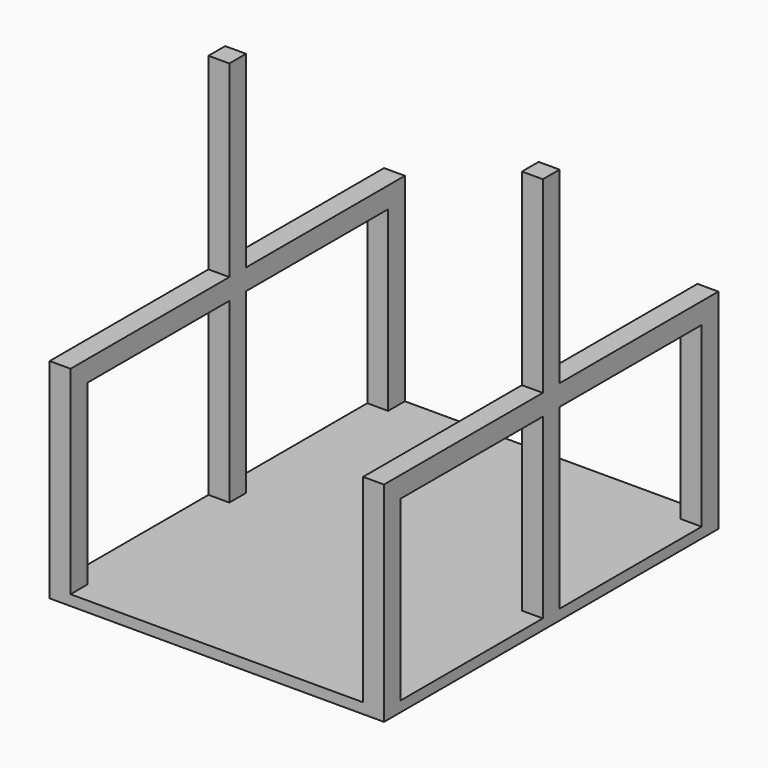
from build123d import *

# Parameters (mm, degrees)
F0_W      = 50
F0_H      = 50
F1_DEPTH  = 50
F0_H_2    = 425
F2_DEPTH  = 25
F3_DEPTH  = 350
F5_DEPTH  = 50
F6_DEPTH  = 500
F8_DEPTH  = 50
F10_DEPTH = 50


with BuildPart() as f1:
    # F0 (on Top) → F1 (new body)
    with BuildSketch(Plane.XY):
        with Locations((-375, 475)):
            Rectangle(F0_W, F0_H)
    extrude(amount=F1_DEPTH)


with BuildPart() as f1b:
    # F0 (on Top) → F1, piece 2 (new body)
    with BuildSketch(Plane.XY):
        with Locations((-375, 0)):
            Rectangle(F0_W, F0_H)
    extrude(amount=F1_DEPTH)


with BuildPart() as f1c:
    # F0 (on Top) → F1, piece 3 (new body)
    with BuildSketch(Plane.XY):
        with Locations((375, 475)):
            Rectangle(F0_W, F0_H)
    extrude(amount=F1_DEPTH)


with BuildPart() as f1d:
    # F0 (on Top) → F1, piece 4 (new body)
    with BuildSketch(Plane.XY):
        with Locations((375, 0)):
            Rectangle(F0_W, F0_H)
    extrude(amount=F1_DEPTH)


with BuildPart() as f1e:
    # F0 (on Top) → F1, piece 5 (new body)
    with BuildSketch(Plane.XY):
        with Locations((-375, -475)):
            Rectangle(F0_W, F0_H)
    extrude(amount=F1_DEPTH)


with BuildPart() as f1f:
    # F0 (on Top) → F1, piece 6 (new body)
    with BuildSketch(Plane.XY):
        with Locations((375, -475)):
            Rectangle(F0_W, F0_H)
    extrude(amount=F1_DEPTH)


with BuildPart() as f2:
    # F0 (on Top) → F2 (new body)
    with BuildSketch(Plane.XY):
        with Locations((375, -475)):
            Rectangle(F0_W, F0_H)
        Polygon((-350, -500), (350, -500), (350, -450), (350, -25), (350, 25), (350, 450), (350, 500), (-350, 500), (-350, 450), (-350, 25), (-350, -25), (-350, -450), align=None)
        with Locations((375, -237.5)):
            Rectangle(F0_W, F0_H_2)
        with Locations((-375, -475)):
            Rectangle(F0_W, F0_H)
        with Locations((375, 0)):
            Rectangle(F0_W, F0_H)
        with Locations((-375, -237.5)):
            Rectangle(F0_W, F0_H_2)
        with Locations((375, 237.5)):
            Rectangle(F0_W, F0_H_2)
        with Locations((-375, 0)):
            Rectangle(F0_W, F0_H)
        with Locations((375, 475)):
            Rectangle(F0_W, F0_H)
        with Locations((-375, 237.5)):
            Rectangle(F0_W, F0_H_2)
        with Locations((-375, 475)):
            Rectangle(F0_W, F0_H)
    extrude(amount=F2_DEPTH)


with BuildPart() as f3:
    # F3 (new): a face of the model
    f3_faces = [f1e.part.faces().sort_by_distance(p)[0] for p in [
        (-375, -475, 50),
    ]]
    extrude(f3_faces, amount=F3_DEPTH)


with BuildPart() as f3b:
    # F3#2 (new): a face of the model
    f3_2_faces = [f1b.part.faces().sort_by_distance(p)[0] for p in [
        (-375, 0, 50),
    ]]
    extrude(f3_2_faces, amount=F3_DEPTH)


with BuildPart() as f3c:
    # F3#3 (new): a face of the model
    f3_3_faces = [f1.part.faces().sort_by_distance(p)[0] for p in [
        (-375, 475, 50),
    ]]
    extrude(f3_3_faces, amount=F3_DEPTH)


with BuildPart() as f3d:
    # F3#4 (new): a face of the model
    f3_4_faces = [f1c.part.faces().sort_by_distance(p)[0] for p in [
        (375, 475, 50),
    ]]
    extrude(f3_4_faces, amount=F3_DEPTH)


with BuildPart() as f3e:
    # F3#5 (new): a face of the model
    f3_5_faces = [f1d.part.faces().sort_by_distance(p)[0] for p in [
        (375, 0, 50),
    ]]
    extrude(f3_5_faces, amount=F3_DEPTH)


with BuildPart() as f3f:
    # F3#6 (new): a face of the model
    f3_6_faces = [f1f.part.faces().sort_by_distance(p)[0] for p in [
        (375, -475, 50),
    ]]
    extrude(f3_6_faces, amount=F3_DEPTH)


with BuildPart() as f3_1:
    add(f3.part)

    # F4: union F3b, F3c, F3d, F3e, F3f, F2, F1d, F1e, F1b, F1, F1c, F1f
    add(f3b.part)
    add(f3c.part)
    add(f3d.part)
    add(f3e.part)
    add(f3f.part)
    add(f2.part)
    add(f1d.part)
    add(f1e.part)
    add(f1b.part)
    add(f1.part)
    add(f1c.part)
    add(f1f.part)

    # F5 (add): faces of the model
    f5_faces = [f3_1.faces().sort_by_distance(p)[0] for p in [
        (375, 475, 400),
        (375, 0, 400),
        (375, -475, 400),
        (-375, -475, 400),
        (-375, 0, 400),
        (-375, 475, 400),
    ]]
    extrude(f5_faces, amount=F5_DEPTH)

    # F6 (add): faces of the model
    f6_faces = [f3_1.faces().sort_by_distance(p)[0] for p in [
        (-375, 0, 450),
        (375, 0, 450),
    ]]
    extrude(f6_faces, amount=F6_DEPTH)

    # F7 (on face) → F8 (join)
    with BuildSketch(Plane.YZ.offset(400)):
        Polygon((25, 500), (25, 450), (450, 450), (500, 450), (500, 500), align=None)
        Polygon((-500, 500), (-500, 450), (-450, 450), (-25, 450), (-25, 500), align=None)
    extrude(amount=-F8_DEPTH)

    # F9 (on face) → F10 (join)
    with BuildSketch(Plane(origin=(-400, 0, 0), x_dir=(0, -1, 0), z_dir=(-1, 0, 0))):
        Polygon((-500, 500), (-500, 450), (-450, 450), (-25, 450), (-25, 500), align=None)
        Polygon((25, 500), (25, 450), (450, 450), (500, 450), (500, 500), align=None)
    extrude(amount=-F10_DEPTH)


solid = f3_1.part
